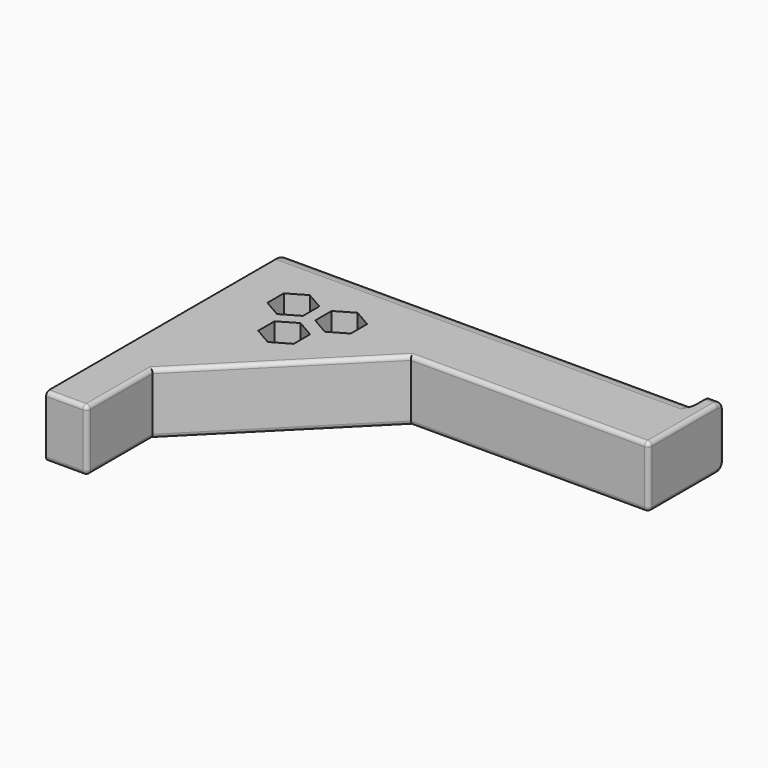
from build123d import *

# Parameters (mm, degrees)
PAD_DEPTH    = 15
FILLET_R     = 5
FILLET001_R  = 2
FILLET002_R  = 1
FILLET003_R  = 1
PAD001_DEPTH = 8


with BuildPart() as part:
    # Sketch → Pad (new body)
    with BuildSketch(Plane.XY):
        Polygon((0, 0), (0, 75), (100, 75), (100, 78), (103, 78), (103, 55), (45, 55), (10, 20), (10, 0), align=None)
        Polygon((18.660254, 55), (18.660254, 60), (14.330127, 62.5), (10, 60), (10, 55), (14.330127, 52.5), align=None, mode=Mode.SUBTRACT)
        Polygon((24.490381, 44.901924), (24.490381, 49.901924), (20.160254, 52.401924), (15.830127, 49.901924), (15.830127, 44.901924), (20.160254, 42.401924), align=None, mode=Mode.SUBTRACT)
        Polygon((30.320508, 55), (30.320508, 60), (25.990381, 62.5), (21.660254, 60), (21.660254, 55), (25.990381, 52.5), align=None, mode=Mode.SUBTRACT)
    extrude(amount=PAD_DEPTH)

    # Fillet
    fillet_edges = [part.edges().sort_by_distance(p)[0] for p in [
        (50, 75, 15),
        (50, 75, 0),
    ]]
    fillet(fillet_edges, radius=FILLET_R)

    # Fillet001
    fillet001_edges = [part.edges().sort_by_distance(p)[0] for p in [
        (101.5, 78, 15),
        (101.5, 78, 0),
    ]]
    fillet(fillet001_edges, radius=FILLET001_R)

    # Fillet002
    fillet002_edges = [part.edges().sort_by_distance(p)[0] for p in [
        (10, 10, 15),
        (27.5, 37.5, 15),
        (27.5, 37.5, 0),
        (10, 10, 0),
        (74, 55, 15),
        (74, 55, 0),
        (103, 55, 7.5),
        (5, 0, 15),
        (5, 0, 0),
        (10, 0, 7.5),
        (103, 65.5, 15),
        (103, 65.5, 0),
        (103, 78, 7.5),
        (103, 77.414214, 14.414214),
        (103, 77.414214, 0.585786),
    ]]
    fillet(fillet002_edges, radius=FILLET002_R)

    # Fillet003
    fillet003_edges = [part.edges().sort_by_distance(p)[0] for p in [
        (100, 73.535534, 13.535534),
        (100, 75, 7.5),
        (100, 73.535534, 1.464466),
    ]]
    fillet(fillet003_edges, radius=FILLET003_R)

    # Sketch003 → Pad001 (join)
    with BuildSketch(Plane.XY):
        Polygon((0, 60.8), (-3.3, 60.8), (-3.3, 59), (-2.5, 59), (-2.5, 60), (0, 60), align=None)
        Polygon((0, 55), (0, 55.8), (-3.3, 55.8), (-3.3, 54), (-2.5, 54), (-2.5, 55), align=None)
        Polygon((0, 50.8), (-3.3, 50.8), (-3.3, 49), (-2.5, 49), (-2.5, 50), (0, 50), align=None)
        Polygon((0, 25.8), (-3.3, 25.8), (-3.3, 24), (-2.5, 24), (-2.5, 25), (0, 25), align=None)
        Polygon((0, 20.8), (-3.3, 20.8), (-3.3, 19), (-2.5, 19), (-2.5, 20), (0, 20), align=None)
        Polygon((0, 15.8), (-3.3, 15.8), (-3.3, 14), (-2.5, 14), (-2.5, 15), (0, 15), align=None)
    extrude(amount=PAD001_DEPTH)


solid = part.part
